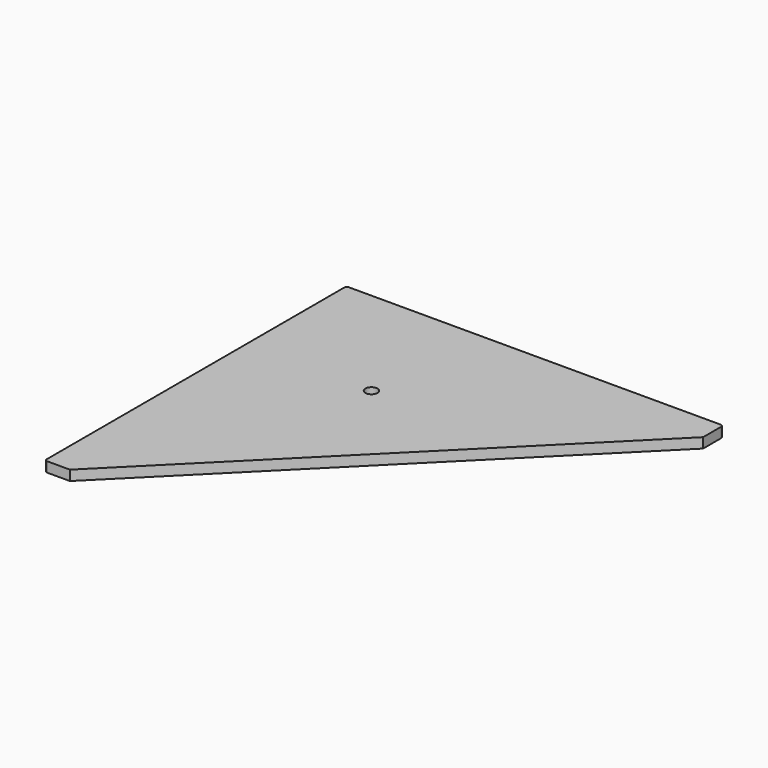
from build123d import *

# Parameters (mm, degrees)
F0_R     = 12.05
F1_DEPTH = 20
F2_R     = 5
F3_R     = 200
F4_DEPTH = 5


with BuildPart() as f1:
    # F0 (on Top) → F1 (new body)
    with BuildSketch(Plane.XY):
        Polygon((750, 0), (0, 0), (0, -750), (50, -750), (750, -50), align=None)
        with Locations((250, -250)):
            Circle(F0_R, mode=Mode.SUBTRACT)
    extrude(amount=F1_DEPTH)

    # F2
    f2_edges = [f1.edges().sort_by_distance(p)[0] for p in [
        (0, -750, 10),
        (750, 0, 10),
        (0, 0, 10),
    ]]
    fillet(f2_edges, radius=F2_R)

    # F3 (on Top) → F4 (cut)
    with BuildSketch(Plane.XY):
        with Locations((250, -250)):
            Circle(F3_R)
    extrude(amount=F4_DEPTH, mode=Mode.SUBTRACT)


solid = f1.part
